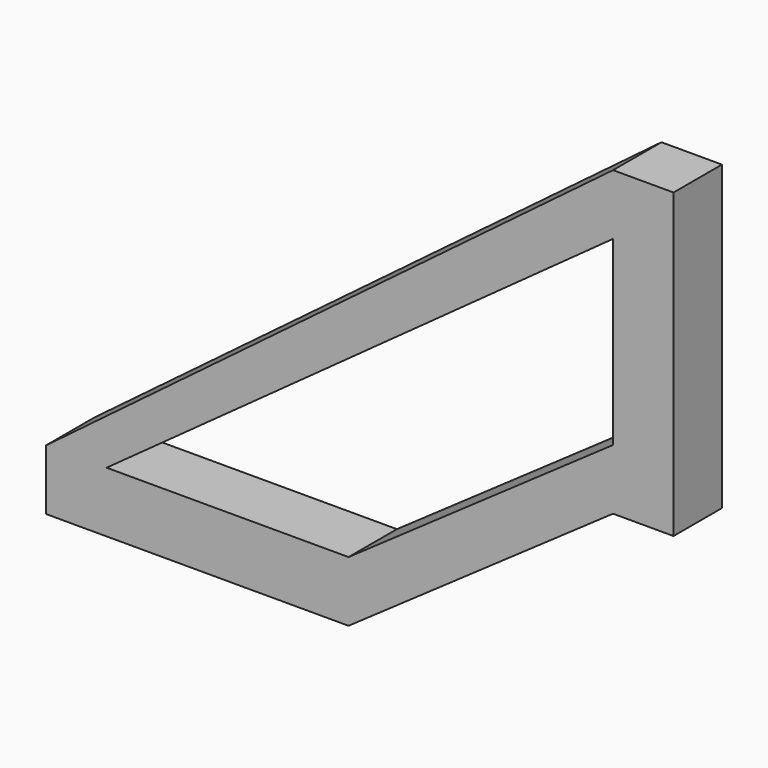
from build123d import *

# Parameters (mm, degrees)
F1_DEPTH = 38.1
F0_W     = 152.4
F0_H     = 38.1
F0_W_2   = 38.1
F2_DEPTH = 38.1


with BuildPart() as f1:
    # F0 (on Front) → F1 (new body)
    with BuildSketch(Plane.XZ):
        Polygon((-190.5, 31.534294), (-152.4, 31.534294), (166.608291, 262.161064), (166.608291, 300.261064), align=None)
    extrude(amount=F1_DEPTH)

    # F0 (on Front) → F2 (join)
    with BuildSketch(Plane.XZ):
        with Locations((-76.2, 12.484294)):
            Rectangle(F0_W, F0_H)
        with Locations((-171.45, 12.484294)):
            Rectangle(F0_W_2, F0_H)
        Polygon((0, 31.534294), (0, -6.565706), (166.608291, 109.761064), (166.608291, 147.861064), align=None)
        Polygon((-190.5, 31.534294), (-152.4, 31.534294), (166.608291, 262.161064), (166.608291, 300.261064), align=None)
        Polygon((166.608291, 147.861064), (166.608291, 109.761064), (204.708291, 109.761064), (204.708291, 262.161064), (166.608291, 262.161064), align=None)
        with Locations((185.658291, 281.211064)):
            Rectangle(F0_W_2, F0_H)
    extrude(amount=F2_DEPTH)


solid = f1.part
